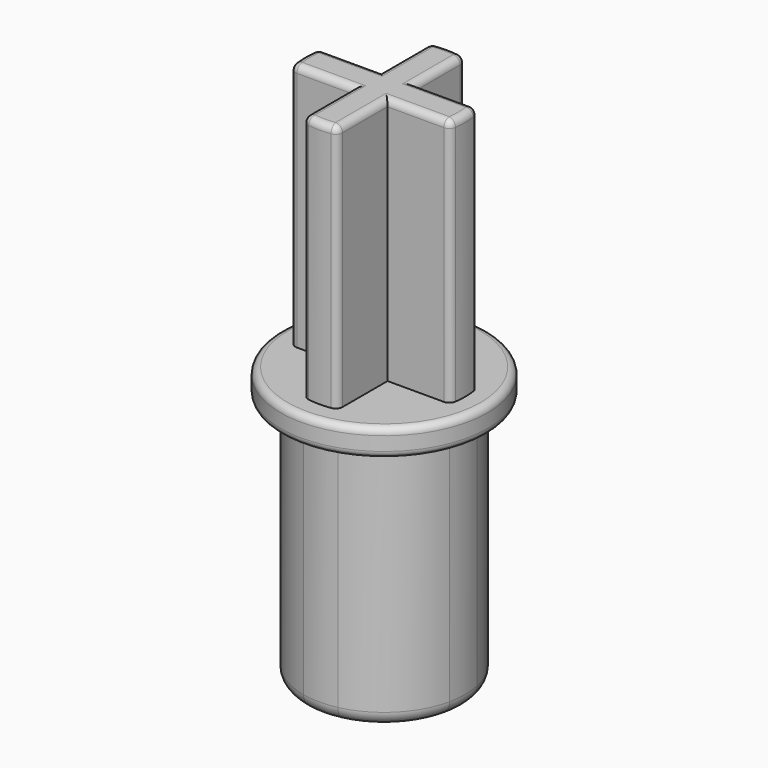
from build123d import *

# Parameters (mm, degrees)
F1_DEPTH = 7.6
F2_DEPTH = 7.6
F3_DEPTH = 7.6
F0_R     = 3
F4_DEPTH = 0.4
F5_R     = 0.2
F6_R     = 0.4
F7_R     = 0.2


with BuildPart() as f1:
    # F0 (on Top) → F1 (new body)
    with BuildSketch(Plane.XY):
        with BuildLine():
            ThreePointArc((1.65, 0), (1.6307168053, 0.2515207765), (1.5733179382, 0.4971626147))
            Line((1.5733179382, 0.4971626147), (0.4971626147, 0.4971626147))
            Line((0.4971626147, 0.4971626147), (0.4971626147, 1.5733179382))
            ThreePointArc((0.4971626147, 1.5733179382), (0, 1.65), (-0.4971626147, 1.5733179382))
            Line((-0.4971626147, 1.5733179382), (-0.4971626147, 0.4971626147))
            Line((-0.4971626147, 0.4971626147), (-1.5733179382, 0.4971626147))
            ThreePointArc((-1.5733179382, 0.4971626147), (-1.65, 0), (-1.5733179382, -0.4971626147))
            Line((-1.5733179382, -0.4971626147), (-0.4971626147, -0.4971626147))
            Line((-0.4971626147, -0.4971626147), (-0.4971626147, -1.5733179382))
            ThreePointArc((-0.4971626147, -1.5733179382), (0, -1.65), (0.4971626147, -1.5733179382))
            Line((0.4971626147, -1.5733179382), (0.4971626147, -0.4971626147))
            Line((0.4971626147, -0.4971626147), (1.5733179382, -0.4971626147))
            ThreePointArc((1.5733179382, -0.4971626147), (1.6307168053, -0.2515207765), (1.65, 0))
        make_face()
        with BuildLine():
            Line((-1.5733179382, 0.4971626147), (-2.2968085106, 0.4971626147))
            ThreePointArc((-2.2968085106, 0.4971626147), (-2.35, 0), (-2.2968085106, -0.4971626147))
            Line((-2.2968085106, -0.4971626147), (-1.5733179382, -0.4971626147))
            ThreePointArc((-1.5733179382, -0.4971626147), (-1.65, 0), (-1.5733179382, 0.4971626147))
        make_face()
        with BuildLine():
            ThreePointArc((-0.4971626147, -2.2968085106), (0, -2.35), (0.4971626147, -2.2968085106))
            Line((0.4971626147, -2.2968085106), (0.4971626147, -1.5733179382))
            ThreePointArc((0.4971626147, -1.5733179382), (0, -1.65), (-0.4971626147, -1.5733179382))
            Line((-0.4971626147, -1.5733179382), (-0.4971626147, -2.2968085106))
        make_face()
        with BuildLine():
            ThreePointArc((2.2968085106, -0.4971626147), (2.3366642891, -0.25), (2.35, 0))
            ThreePointArc((2.35, 0), (2.3366642891, 0.25), (2.2968085106, 0.4971626147))
            Line((2.2968085106, 0.4971626147), (1.5733179382, 0.4971626147))
            ThreePointArc((1.5733179382, 0.4971626147), (1.6307168053, 0.2515207765), (1.65, 0))
            ThreePointArc((1.65, 0), (1.6307168053, -0.2515207765), (1.5733179382, -0.4971626147))
            Line((1.5733179382, -0.4971626147), (2.2968085106, -0.4971626147))
        make_face()
        with BuildLine():
            Line((0.4971626147, 1.5733179382), (0.4971626147, 2.2968085106))
            ThreePointArc((0.4971626147, 2.2968085106), (0, 2.35), (-0.4971626147, 2.2968085106))
            Line((-0.4971626147, 2.2968085106), (-0.4971626147, 1.5733179382))
            ThreePointArc((-0.4971626147, 1.5733179382), (0, 1.65), (0.4971626147, 1.5733179382))
        make_face()
    extrude(amount=F1_DEPTH)

    # F0 (on Top) → F2 (join)
    with BuildSketch(Plane.XY):
        with BuildLine():
            Line((-1.5733179382, 0.4971626147), (-2.2968085106, 0.4971626147))
            ThreePointArc((-2.2968085106, 0.4971626147), (-2.35, 0), (-2.2968085106, -0.4971626147))
            Line((-2.2968085106, -0.4971626147), (-1.5733179382, -0.4971626147))
            ThreePointArc((-1.5733179382, -0.4971626147), (-1.65, 0), (-1.5733179382, 0.4971626147))
        make_face()
        with BuildLine():
            ThreePointArc((2.2968085106, -0.4971626147), (2.3366642891, -0.25), (2.35, 0))
            ThreePointArc((2.35, 0), (2.3366642891, 0.25), (2.2968085106, 0.4971626147))
            Line((2.2968085106, 0.4971626147), (1.5733179382, 0.4971626147))
            ThreePointArc((1.5733179382, 0.4971626147), (1.6307168053, 0.2515207765), (1.65, 0))
            ThreePointArc((1.65, 0), (1.6307168053, -0.2515207765), (1.5733179382, -0.4971626147))
            Line((1.5733179382, -0.4971626147), (2.2968085106, -0.4971626147))
        make_face()
        with BuildLine():
            ThreePointArc((-0.4971626147, -2.2968085106), (0, -2.35), (0.4971626147, -2.2968085106))
            Line((0.4971626147, -2.2968085106), (0.4971626147, -1.5733179382))
            ThreePointArc((0.4971626147, -1.5733179382), (0, -1.65), (-0.4971626147, -1.5733179382))
            Line((-0.4971626147, -1.5733179382), (-0.4971626147, -2.2968085106))
        make_face()
        with BuildLine():
            Line((0.4971626147, 1.5733179382), (0.4971626147, 2.2968085106))
            ThreePointArc((0.4971626147, 2.2968085106), (0, 2.35), (-0.4971626147, 2.2968085106))
            Line((-0.4971626147, 2.2968085106), (-0.4971626147, 1.5733179382))
            ThreePointArc((-0.4971626147, 1.5733179382), (0, 1.65), (0.4971626147, 1.5733179382))
        make_face()
    extrude(amount=-F2_DEPTH)

    # F0 (on Top) → F3 (join)
    with BuildSketch(Plane.XY):
        with BuildLine():
            ThreePointArc((0.4971626147, -2.2968085106), (1.6617009358, -1.6617009358), (2.2968085106, -0.4971626147))
            Line((2.2968085106, -0.4971626147), (1.5733179382, -0.4971626147))
            ThreePointArc((1.5733179382, -0.4971626147), (1.166726189, -1.166726189), (0.4971626147, -1.5733179382))
            Line((0.4971626147, -1.5733179382), (0.4971626147, -2.2968085106))
        make_face()
        with BuildLine():
            Line((1.5733179382, 0.4971626147), (2.2968085106, 0.4971626147))
            ThreePointArc((2.2968085106, 0.4971626147), (1.6617009358, 1.6617009358), (0.4971626147, 2.2968085106))
            Line((0.4971626147, 2.2968085106), (0.4971626147, 1.5733179382))
            ThreePointArc((0.4971626147, 1.5733179382), (1.166726189, 1.166726189), (1.5733179382, 0.4971626147))
        make_face()
        with BuildLine():
            Line((-0.4971626147, 1.5733179382), (-0.4971626147, 2.2968085106))
            ThreePointArc((-0.4971626147, 2.2968085106), (-1.6617009358, 1.6617009358), (-2.2968085106, 0.4971626147))
            Line((-2.2968085106, 0.4971626147), (-1.5733179382, 0.4971626147))
            ThreePointArc((-1.5733179382, 0.4971626147), (-1.166726189, 1.166726189), (-0.4971626147, 1.5733179382))
        make_face()
        with BuildLine():
            ThreePointArc((-2.2968085106, -0.4971626147), (-1.6617009358, -1.6617009358), (-0.4971626147, -2.2968085106))
            Line((-0.4971626147, -2.2968085106), (-0.4971626147, -1.5733179382))
            ThreePointArc((-0.4971626147, -1.5733179382), (-1.166726189, -1.166726189), (-1.5733179382, -0.4971626147))
            Line((-1.5733179382, -0.4971626147), (-2.2968085106, -0.4971626147))
        make_face()
    extrude(amount=-F3_DEPTH)

    # F0 (on Top) → F4 (join, symmetric)
    with BuildSketch(Plane.XY):
        Circle(F0_R)
        with BuildLine():
            ThreePointArc((2.2968085106, 0.4971626147), (2.3366642891, 0.25), (2.35, 0))
            ThreePointArc((2.35, 0), (2.3366642891, -0.25), (2.2968085106, -0.4971626147))
            ThreePointArc((2.2968085106, -0.4971626147), (1.6617009358, -1.6617009358), (0.4971626147, -2.2968085106))
            ThreePointArc((0.4971626147, -2.2968085106), (0, -2.35), (-0.4971626147, -2.2968085106))
            ThreePointArc((-0.4971626147, -2.2968085106), (-1.6617009358, -1.6617009358), (-2.2968085106, -0.4971626147))
            ThreePointArc((-2.2968085106, -0.4971626147), (-2.35, 0), (-2.2968085106, 0.4971626147))
            ThreePointArc((-2.2968085106, 0.4971626147), (-1.6617009358, 1.6617009358), (-0.4971626147, 2.2968085106))
            ThreePointArc((-0.4971626147, 2.2968085106), (0, 2.35), (0.4971626147, 2.2968085106))
            ThreePointArc((0.4971626147, 2.2968085106), (1.6617009358, 1.6617009358), (2.2968085106, 0.4971626147))
        make_face(mode=Mode.SUBTRACT)
        with BuildLine():
            ThreePointArc((-1.5733179382, -0.4971626147), (-1.166726189, -1.166726189), (-0.4971626147, -1.5733179382))
            Line((-0.4971626147, -1.5733179382), (-0.4971626147, -0.4971626147))
            Line((-0.4971626147, -0.4971626147), (-1.5733179382, -0.4971626147))
        make_face()
        with BuildLine():
            ThreePointArc((-2.2968085106, -0.4971626147), (-1.6617009358, -1.6617009358), (-0.4971626147, -2.2968085106))
            Line((-0.4971626147, -2.2968085106), (-0.4971626147, -1.5733179382))
            ThreePointArc((-0.4971626147, -1.5733179382), (-1.166726189, -1.166726189), (-1.5733179382, -0.4971626147))
            Line((-1.5733179382, -0.4971626147), (-2.2968085106, -0.4971626147))
        make_face()
        with BuildLine():
            ThreePointArc((0.4971626147, -1.5733179382), (1.166726189, -1.166726189), (1.5733179382, -0.4971626147))
            Line((1.5733179382, -0.4971626147), (0.4971626147, -0.4971626147))
            Line((0.4971626147, -0.4971626147), (0.4971626147, -1.5733179382))
        make_face()
        with BuildLine():
            ThreePointArc((0.4971626147, -2.2968085106), (1.6617009358, -1.6617009358), (2.2968085106, -0.4971626147))
            Line((2.2968085106, -0.4971626147), (1.5733179382, -0.4971626147))
            ThreePointArc((1.5733179382, -0.4971626147), (1.166726189, -1.166726189), (0.4971626147, -1.5733179382))
            Line((0.4971626147, -1.5733179382), (0.4971626147, -2.2968085106))
        make_face()
        with BuildLine():
            Line((0.4971626147, 0.4971626147), (1.5733179382, 0.4971626147))
            ThreePointArc((1.5733179382, 0.4971626147), (1.166726189, 1.166726189), (0.4971626147, 1.5733179382))
            Line((0.4971626147, 1.5733179382), (0.4971626147, 0.4971626147))
        make_face()
        with BuildLine():
            Line((1.5733179382, 0.4971626147), (2.2968085106, 0.4971626147))
            ThreePointArc((2.2968085106, 0.4971626147), (1.6617009358, 1.6617009358), (0.4971626147, 2.2968085106))
            Line((0.4971626147, 2.2968085106), (0.4971626147, 1.5733179382))
            ThreePointArc((0.4971626147, 1.5733179382), (1.166726189, 1.166726189), (1.5733179382, 0.4971626147))
        make_face()
        with BuildLine():
            Line((-0.4971626147, 0.4971626147), (-0.4971626147, 1.5733179382))
            ThreePointArc((-0.4971626147, 1.5733179382), (-1.166726189, 1.166726189), (-1.5733179382, 0.4971626147))
            Line((-1.5733179382, 0.4971626147), (-0.4971626147, 0.4971626147))
        make_face()
        with BuildLine():
            Line((-0.4971626147, 1.5733179382), (-0.4971626147, 2.2968085106))
            ThreePointArc((-0.4971626147, 2.2968085106), (-1.6617009358, 1.6617009358), (-2.2968085106, 0.4971626147))
            Line((-2.2968085106, 0.4971626147), (-1.5733179382, 0.4971626147))
            ThreePointArc((-1.5733179382, 0.4971626147), (-1.166726189, 1.166726189), (-0.4971626147, 1.5733179382))
        make_face()
    extrude(amount=F4_DEPTH, both=True)

    # F5
    f5_edges = [f1.edges().sort_by_distance(p)[0] for p in [
        (-0.497163, -2.296809, 4),
        (-0.497163, -2.296809, -4),
        (0.497163, -2.296809, 4),
        (0.497163, -2.296809, -4),
        (-2.296809, -0.497163, 4),
        (-2.296809, -0.497163, -4),
        (-2.296809, 0.497163, 4),
        (-2.296809, 0.497163, -4),
        (-0.497163, 2.296809, -4),
        (-0.497163, 2.296809, 4),
        (2.296809, -0.497163, 4),
        (2.296809, -0.497163, -4),
        (2.296809, 0.497163, 4),
        (2.296809, 0.497163, -4),
        (0.497163, 2.296809, 4),
        (0.497163, 2.296809, -4),
        (-3, 0, 0.4),
        (-3, 0, -0.4),
        (1.573318, -0.497163, -7.6),
    ]]
    fillet(f5_edges, radius=F5_R)

    # F6
    f6_edges = [f1.edges().sort_by_distance(p)[0] for p in [
        (0, 2.35, -7.6),
        (-2.35, 0, -7.6),
        (0, -2.35, -7.6),
        (2.35, 0, -7.6),
        (1.661701, 1.661701, -7.6),
        (-1.661701, 1.661701, -7.6),
        (-1.661701, -1.661701, -7.6),
        (1.661701, -1.661701, -7.6),
    ]]
    fillet(f6_edges, radius=F6_R)

    # F7
    f7_edges = [f1.edges().sort_by_distance(p)[0] for p in [
        (0.497163, 1.313264, 7.6),
        (0.448041, 2.26065, 7.6),
        (1.313264, 0.497163, 7.6),
        (0, 2.35, 7.6),
        (2.26065, 0.448041, 7.6),
        (-0.448041, 2.26065, 7.6),
        (2.35, 0, 7.6),
        (-0.497163, 1.313264, 7.6),
        (2.26065, -0.448041, 7.6),
        (-1.313264, 0.497163, 7.6),
        (1.313264, -0.497163, 7.6),
        (-2.26065, 0.448041, 7.6),
        (0.497163, -1.313264, 7.6),
        (-2.35, 0, 7.6),
        (0.448041, -2.26065, 7.6),
        (-2.26065, -0.448041, 7.6),
        (0, -2.35, 7.6),
        (-1.313264, -0.497163, 7.6),
        (-0.448041, -2.26065, 7.6),
        (-0.497163, -1.313264, 7.6),
    ]]
    fillet(f7_edges, radius=F7_R)


solid = f1.part
